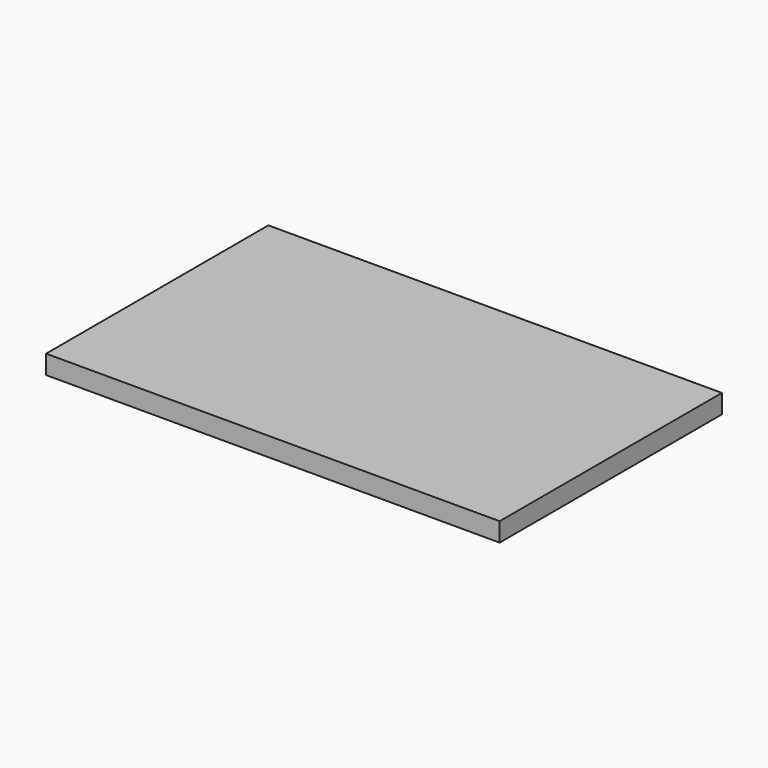
from build123d import *

# Parameters (mm, degrees)
F0_W     = 6096
F0_H     = 3733.8
F1_DEPTH = 254


with BuildPart() as f1:
    # F0 (on Top) → F1 (new body)
    with BuildSketch(Plane.XY):
        with Locations((-3048, 1866.9)):
            Rectangle(F0_W, F0_H)
    extrude(amount=-F1_DEPTH)


with BuildPart() as f2_1:
    # F2: copy of F1
    add(f1.part)


solid = f1.part
